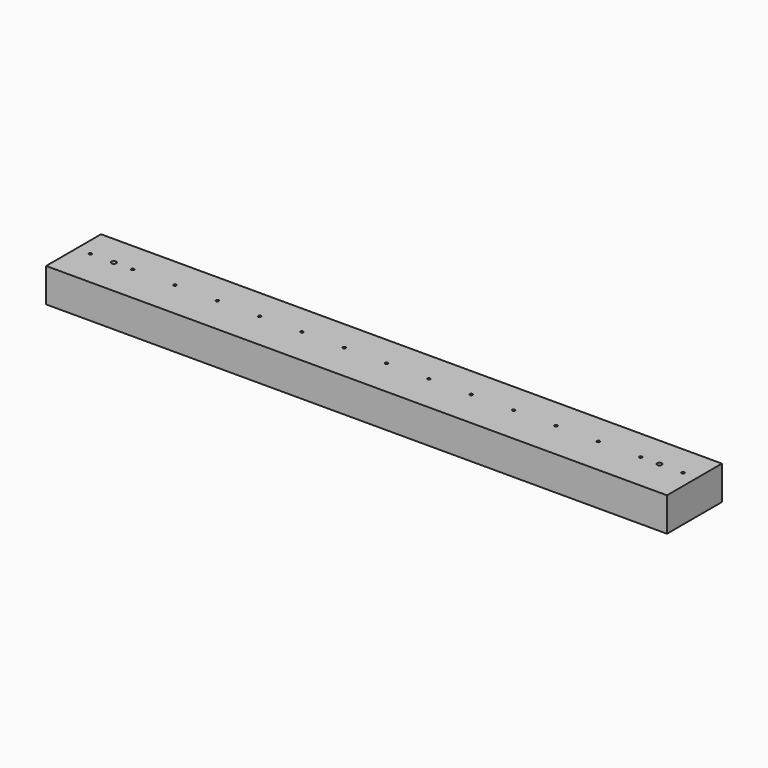
from build123d import *

# Parameters (mm, degrees)
F0_W     = 73
F0_H     = 36
F1_DEPTH = 660
F2_R     = 1.5
F2_R_2   = 2.5
F3_DEPTH = 40


with BuildPart() as f1:
    # F0 (on Right) → F1 (new body)
    with BuildSketch(Plane.YZ):
        Rectangle(F0_W, F0_H)
    extrude(amount=F1_DEPTH)

    # F2 (on face) → F3 (cut)
    with BuildSketch(Plane.XY.offset(18)):
        with Locations((15, 3.5)):
            Circle(F2_R)
        with Locations((40, 3.5)):
            Circle(F2_R_2)
        with Locations((60, 3.5)):
            Circle(F2_R)
        with Locations((150, 3.5)):
            Circle(F2_R)
        with Locations((105, 3.5)):
            Circle(F2_R)
        with Locations((195, 3.5)):
            Circle(F2_R)
        with Locations((240, 3.5)):
            Circle(F2_R)
        with Locations((285, 3.5)):
            Circle(F2_R)
        with BuildLine():
            ThreePointArc((330, 5), (328.5, 3.5), (330, 2))
            Line((330, 2), (330, 5))
        make_face()
        with Locations((375, 3.5)):
            Circle(F2_R)
        with BuildLine():
            Line((330, 5), (330, 2))
            ThreePointArc((330, 2), (331.0606601718, 2.4393398282), (331.5, 3.5))
            ThreePointArc((331.5, 3.5), (331.0606601718, 4.5606601718), (330, 5))
        make_face()
        with Locations((420, 3.5)):
            Circle(F2_R)
        with Locations((465, 3.5)):
            Circle(F2_R)
        with Locations((510, 3.5)):
            Circle(F2_R)
        with Locations((555, 3.5)):
            Circle(F2_R)
        with Locations((600, 3.5)):
            Circle(F2_R)
        with Locations((620, 3.5)):
            Circle(F2_R_2)
        with Locations((645, 3.5)):
            Circle(F2_R)
    extrude(amount=-F3_DEPTH, mode=Mode.SUBTRACT)


solid = f1.part
